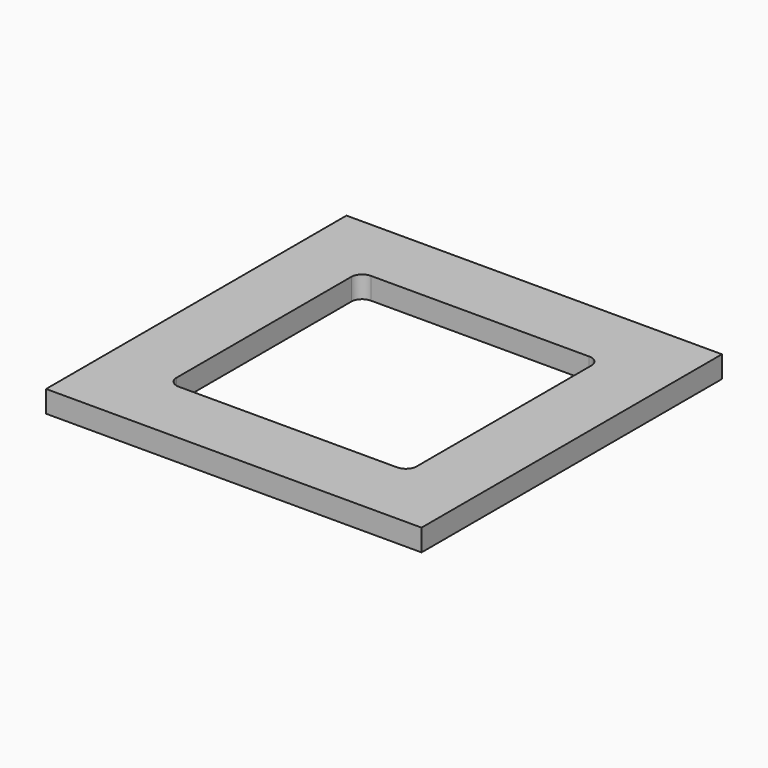
from build123d import *

# Parameters (mm, degrees)
F0_W     = 172
F0_H     = 172
F1_DEPTH = 10
F2_W     = 110
F2_H     = 110
F3_DEPTH = 45
F4_R     = 5


with BuildPart() as f1:
    # F0 (on Top) → F1 (new body)
    with BuildSketch(Plane.XY):
        Rectangle(F0_W, F0_H)
    extrude(amount=F1_DEPTH)

    # F2 (on Top) → F3 (cut)
    with BuildSketch(Plane.XY):
        Rectangle(F2_W, F2_H)
    extrude(amount=F3_DEPTH, mode=Mode.SUBTRACT)

    # F4
    f4_edges = [f1.edges().sort_by_distance(p)[0] for p in [
        (55, 55, 5),
        (55, -55, 5),
        (-55, -55, 5),
        (-55, 55, 5),
    ]]
    fillet(f4_edges, radius=F4_R)


solid = f1.part
